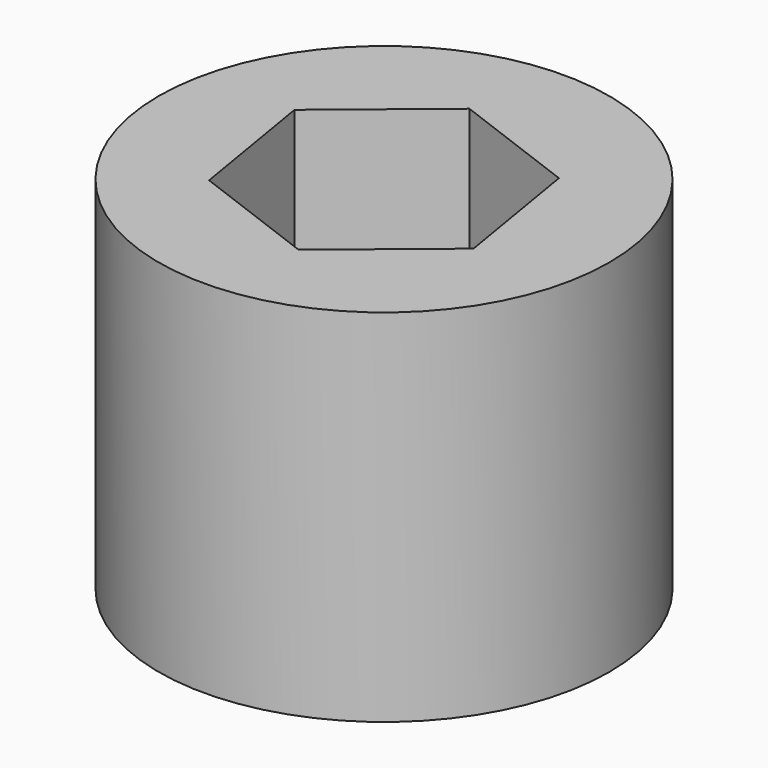
from build123d import *

# Parameters (mm, degrees)
F0_R     = 12.7
F0_R_2   = 10.16
F1_DEPTH = 20.32
F2_DEPTH = 20.32
F3_R     = 9.652
F4_DEPTH = 12.7


with BuildPart() as f1:
    # F0 (on Top) → F1 (new body)
    with BuildSketch(Plane.XY):
        with Locations((-39.235822, 31.019291)):
            Circle(F0_R)
        with Locations((-39.235822, 31.019291)):
            Circle(F0_R_2, mode=Mode.SUBTRACT)
    extrude(amount=F1_DEPTH)

    # F0 (on Top) → F2 (join)
    with BuildSketch(Plane.XY):
        with Locations((-39.235822, 31.019291)):
            Circle(F0_R_2)
        Polygon((-40.496945, 38.614266), (-33.288942, 35.908943), (-32.027819, 28.313968), (-37.974699, 23.424316), (-45.182701, 26.129639), (-46.443824, 33.724614), align=None, mode=Mode.SUBTRACT)
    extrude(amount=F2_DEPTH)

    # F3 (on face) → F4 (cut)
    with BuildSketch(Plane(origin=(0, 0, 0), x_dir=(1, 0, 0), z_dir=(0, 0, -1))):
        with Locations((-39.235822, -31.019291)):
            Circle(F3_R)
    extrude(amount=-F4_DEPTH, mode=Mode.SUBTRACT)


solid = f1.part
